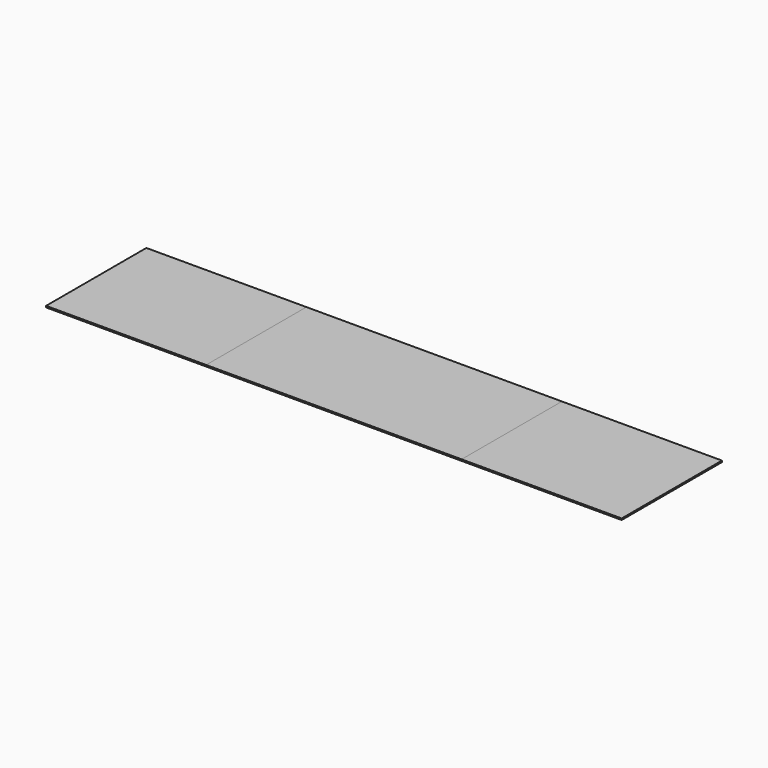
from build123d import *

# Parameters (mm, degrees)
F0_W     = 166
F0_H     = 130
F3_DEPTH = 1.5
F1_W     = 265
F1_H     = 130
F2_W     = 166
F2_H     = 130


with BuildPart() as f3:
    # F0 (on Top) → F3 (new body)
    with BuildSketch(Plane.XY):
        with Locations((-381.8858712912, -96.657033834)):
            Rectangle(F0_W, F0_H)
    extrude(amount=F3_DEPTH)


with BuildPart() as f3b:
    # F1 (on Top) → F3, piece 2 (new body)
    with BuildSketch(Plane.XY):
        with Locations((-166.3858712912, -96.657033834)):
            Rectangle(F1_W, F1_H)
    extrude(amount=F3_DEPTH)


with BuildPart() as f3c:
    # F2 (on Top) → F3, piece 3 (new body)
    with BuildSketch(Plane.XY):
        with Locations((49.1141287088, -96.657033834)):
            Rectangle(F2_W, F2_H)
    extrude(amount=F3_DEPTH)


solid = Compound([f3.part, f3b.part, f3c.part])
